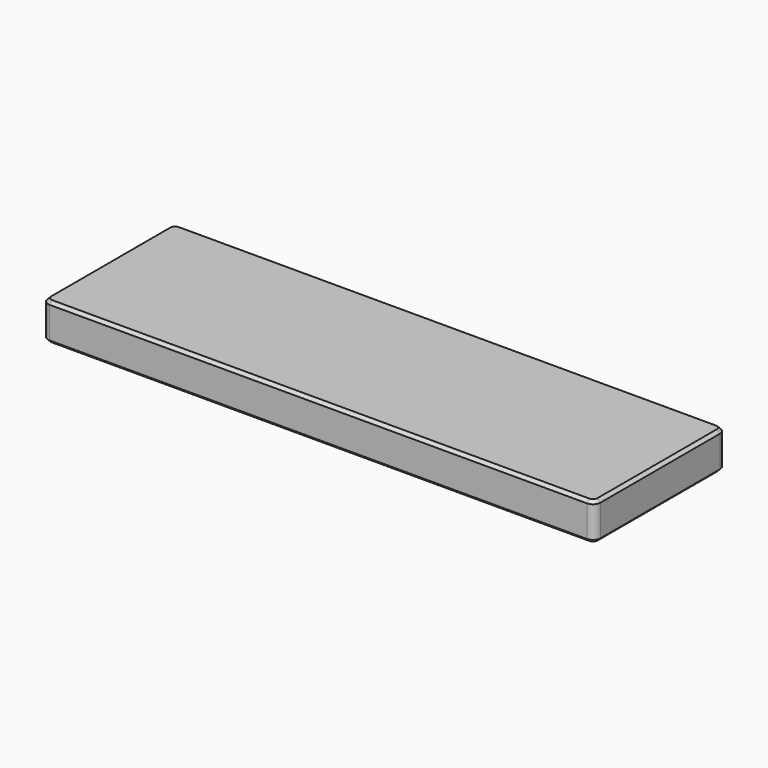
from build123d import *

# Parameters (mm, degrees)
CYLINDER001_R     = 4.25
CYLINDER001_DEPTH = 3
CYLINDER_R        = 4.25
CYLINDER_DEPTH    = 3
CYLINDER002_R     = 4.25
CYLINDER002_DEPTH = 3
CYLINDER003_R     = 4.25
CYLINDER003_DEPTH = 3
BOX_W             = 74
BOX_H             = 22
BOX_DEPTH         = 5
FILLET_R          = 1
CHAMFER_SIZE      = 0.4


with BuildPart() as cylinder001:
    # Cylinder001 → Cylinder001 (new body)
    with BuildSketch(Plane(origin=(22, 2, 0), x_dir=(1, 0, 0), z_dir=(0, 0, 1))):
        Circle(CYLINDER001_R)
    extrude(amount=CYLINDER001_DEPTH)


with BuildPart() as cylinder:
    # Cylinder → Cylinder (new body)
    with BuildSketch(Plane(origin=(-38, 2, 0), x_dir=(1, 0, 0), z_dir=(0, 0, 1))):
        Circle(CYLINDER_R)
    extrude(amount=CYLINDER_DEPTH)


with BuildPart() as cylinder002:
    # Cylinder002 → Cylinder002 (new body)
    with BuildSketch(Plane(origin=(2, 2, 0), x_dir=(1, 0, 0), z_dir=(0, 0, 1))):
        Circle(CYLINDER002_R)
    extrude(amount=CYLINDER002_DEPTH)


with BuildPart() as fusion:
    # Cylinder003 → Cylinder003 (new body)
    with BuildSketch(Plane(origin=(-18, 2, 0), x_dir=(1, 0, 0), z_dir=(0, 0, 1))):
        Circle(CYLINDER003_R)
    extrude(amount=CYLINDER003_DEPTH)

    # Fusion: union Cylinder001, Cylinder, Cylinder002
    add(cylinder001.part)
    add(cylinder.part)
    add(cylinder002.part)


with BuildPart() as fusion_1:
    # Fusion placement: moved
    add(fusion.part.moved(Location((0, 0, 1))))


with BuildPart() as cut:
    # Box → Box (new body)
    with BuildSketch(Plane(origin=(-45, -9, 0), x_dir=(1, 0, 0), z_dir=(0, 0, 1))):
        with Locations((37, 11)):
            Rectangle(BOX_W, BOX_H)
    extrude(amount=BOX_DEPTH)

    # Fillet
    fillet_edges = [cut.edges().sort_by_distance(p)[0] for p in [
        (-45, -9, 2.5),
        (-45, 13, 2.5),
        (29, -9, 2.5),
        (29, 13, 2.5),
    ]]
    fillet(fillet_edges, radius=FILLET_R)

    # Chamfer
    chamfer_edges = [cut.edges().sort_by_distance(p)[0] for p in [
        (-45, 2, 5),
        (-45, 2, 0),
        (-44.707107, -8.707107, 5),
        (-44.707107, 12.707107, 5),
        (-8, -9, 5),
        (-8, 13, 5),
        (28.707107, -8.707107, 5),
        (28.707107, 12.707107, 5),
        (29, 2, 5),
        (-44.707107, -8.707107, 0),
        (-44.707107, 12.707107, 0),
        (-8, -9, 0),
        (-8, 13, 0),
        (28.707107, -8.707107, 0),
        (28.707107, 12.707107, 0),
        (29, 2, 0),
    ]]
    chamfer(chamfer_edges, length=CHAMFER_SIZE)

    # Cut: cut Fusion
    add(fusion_1.part, mode=Mode.SUBTRACT)


solid = cut.part
